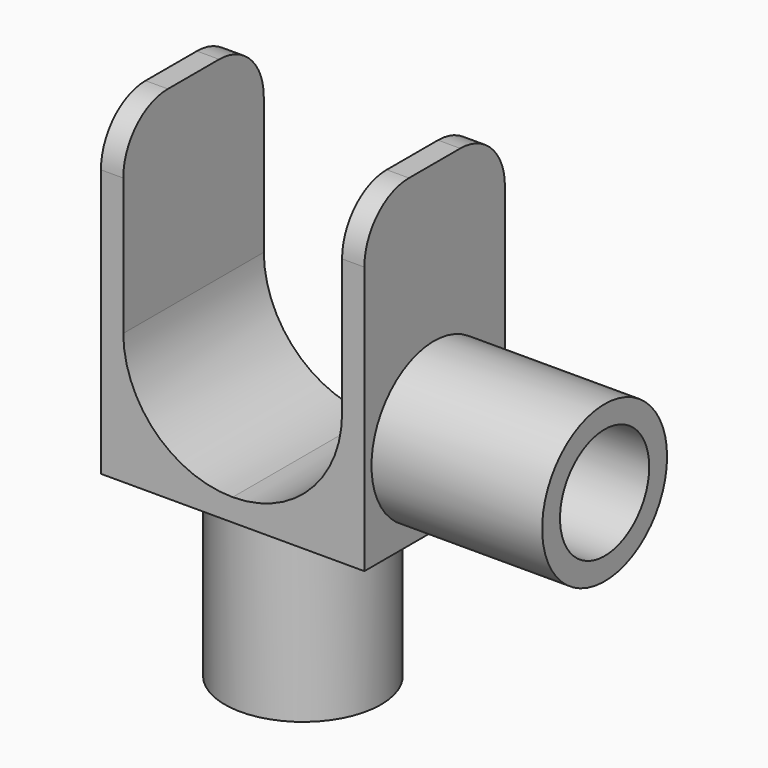
from build123d import *

# Parameters (mm, degrees)
F0_W     = 9.81
F0_H     = 2
F1_DEPTH = 15.75
F2_R     = 5
F3_R     = 7
F3_R_2   = 5
F4_DEPTH = 15.3
F5_R     = 7
F5_R_2   = 5
F6_DEPTH = 15.3
F8_DEPTH = 15.75


with BuildPart() as f1:
    # F0 (on Front) → F1 (new body)
    with BuildSketch(Plane.XZ):
        Polygon((-9.81, 22.150199), (-11.81, 22.150199), (-11.81, -6.849801), (-9.81, -6.849801), (-9.81, -4.849801), align=None)
        with Locations((-4.905, -5.849801)):
            Rectangle(F0_W, F0_H)
        with Locations((4.905, -5.849801)):
            Rectangle(F0_W, F0_H)
        Polygon((9.81, 22.150199), (9.81, -4.849801), (9.81, -6.849801), (11.81, -6.849801), (11.81, 22.150199), align=None)
    extrude(amount=F1_DEPTH)

    # F2
    f2_edges = [f1.edges().sort_by_distance(p)[0] for p in [
        (10.81, -15.75, 22.150199),
        (-10.81, -15.75, 22.150199),
        (10.81, 0, 22.150199),
        (-10.81, 0, 22.150199),
    ]]
    fillet(f2_edges, radius=F2_R)

    # F3 (on face) → F4 (join)
    with BuildSketch(Plane.YZ.offset(11.81)):
        with Locations((-7.951076, 1.150199)):
            Circle(F3_R)
        with Locations((-7.951076, 1.150199)):
            Circle(F3_R_2, mode=Mode.SUBTRACT)
    extrude(amount=F4_DEPTH)

    # F5 (on face) → F6 (join)
    with BuildSketch(Plane(origin=(0, 0, -6.849801), x_dir=(1, 0, 0), z_dir=(0, 0, -1))):
        with Locations((0, 7.875)):
            Circle(F5_R)
        with Locations((0, 7.875)):
            Circle(F5_R_2, mode=Mode.SUBTRACT)
    extrude(amount=F6_DEPTH)

    # F7 (on face) → F8 (join, through all)
    with BuildSketch(Plane.XZ.offset(15.75)):
        with BuildLine():
            ThreePointArc((9.81, 4.885641), (9.810285, 4.960485), (9.81, 5.035329))
            Line((9.81, 5.035329), (9.81, 4.885641))
        make_face()
        with BuildLine():
            ThreePointArc((-9.81, 5.035329), (-9.810285, 4.960485), (-9.81, 4.885641))
            Line((-9.81, 4.885641), (-9.81, 5.035329))
        make_face()
        with BuildLine():
            Line((-9.81, -4.849801), (0, -4.849801))
            ThreePointArc((0, -4.849801), (-6.910407, -2.002845), (-9.81, 4.885641))
            Line((-9.81, 4.885641), (-9.81, -4.849801))
        make_face()
        with BuildLine():
            Line((9.81, -4.849801), (9.81, 4.885641))
            ThreePointArc((9.81, 4.885641), (6.910407, -2.002846), (0, -4.849801))
            Line((0, -4.849801), (9.81, -4.849801))
        make_face()
    extrude(amount=-F8_DEPTH)


solid = f1.part
